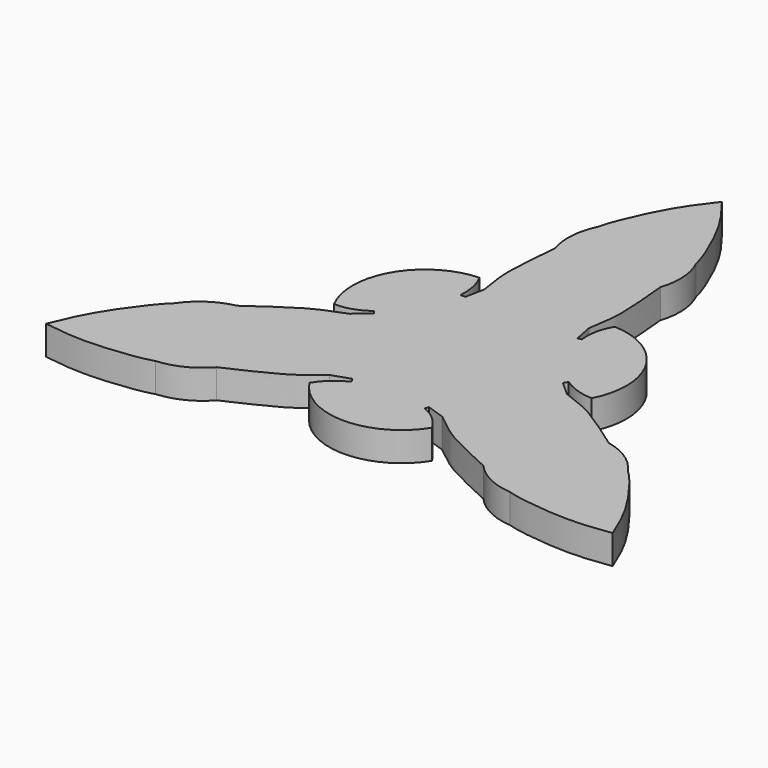
from build123d import *

# Parameters (mm, degrees)
F1_DEPTH = 6.35


with BuildPart() as f1:
    # F0 (on Top) → F1 (new body)
    with BuildSketch(Plane.XY):
        with BuildLine():
            add(Edge.make_bspline(
                [(0, 71.2421610951), (-1.8717980289, 68.832793782), (-5.9054940485, 63.7394567312), (-10.2932083579, 53.2239591481), (-10.7742816294, 50.7587112719)],
                knots=[0, 0, 0, 0, 0.3881776272, 0.8302867615, 0.8302867615, 0.8302867615, 0.8302867615], degree=3))
            ThreePointArc((-10.7742816294, 50.7587112719), (-12.151414509, 45.5150408691), (-11.4572210078, 40.1381765744))
            add(Edge.make_bspline(
                [(-11.3991048065, 20.7600555156), (-11.7325351971, 22.9101453469), (-12.7530584769, 27.8294481961), (-11.8366984864, 35.6693833545), (-11.4572210078, 40.1381765744)],
                knots=[0, 0, 0, 0, 0.426568444, 1, 1, 1, 1], degree=3))
            Line((-11.3991048065, 20.7600555156), (-12.216145647, 16.6687367736))
            Line((-12.216145647, 16.6687367736), (-20.5436223185, 2.2451240799))
            Line((-20.5436223185, 2.2451240799), (-8.3274766714, -18.9138608535))
            Line((-8.3274766714, -18.9138608535), (8.3274766714, -18.9138608535))
            Line((8.3274766714, -18.9138608535), (20.5436223185, 2.2451240799))
            Line((20.5436223185, 2.2451240799), (12.216145647, 16.6687367736))
            Line((12.216145647, 16.6687367736), (11.3991048065, 20.7600555156))
            add(Edge.make_bspline(
                [(11.3991048065, 20.7600555156), (11.7325351971, 22.9101453469), (12.7530584769, 27.8294481961), (11.8366984864, 35.6693833545), (11.4572210078, 40.1381765744)],
                knots=[0, 0, 0, 0, 0.426568444, 1, 1, 1, 1], degree=3))
            ThreePointArc((11.4572210078, 40.1381765744), (12.151414509, 45.5150408691), (10.7742816294, 50.7587112719))
            add(Edge.make_bspline(
                [(0, 71.2421610951), (1.8717980289, 68.832793782), (5.9054940485, 63.7394567312), (10.2932083579, 53.2239591481), (10.7742816294, 50.7587112719)],
                knots=[0, 0, 0, 0, 0.3881776272, 0.8302867615, 0.8302867615, 0.8302867615, 0.8302867615], degree=3))
        make_face()
        with BuildLine():
            Line((-20.5436223185, 2.2451240799), (-12.216145647, 16.6687367736))
            Line((-12.216145647, 16.6687367736), (-13.2953060188, 16.6687367736))
            ThreePointArc((-13.2953060188, 16.6687367736), (-13.4997773753, 20.2820878122), (-14.7402806158, 23.6819798654))
            ThreePointArc((-14.7402806158, 23.6819798654), (-27.7067627464, 15.7853712662), (-27.984043385, 0.6061353941))
            ThreePointArc((-27.984043385, 0.6061353941), (-24.3555326782, 1.1738561923), (-21.1061885939, 2.885627169))
            Line((-21.1061885939, 2.885627169), (-20.5436223185, 2.2451240799))
        make_face()
        with BuildLine():
            Line((-8.3274766714, -18.9138608535), (-20.5436223185, 2.2451240799))
            Line((-20.5436223185, 2.2451240799), (-23.6782878637, -0.508113415))
            add(Edge.make_bspline(
                [(-23.6782878637, -0.508113415), (-25.7070354734, -1.294399142), (-30.4775383496, -2.8702514812), (-36.8089413655, -7.5838100911), (-40.4892910789, -10.1468438377)],
                knots=[0, 0, 0, 0, 0.426568444, 1, 1, 1, 1], degree=3))
            ThreePointArc((-40.4892910789, -10.1468438377), (-45.4928889014, -12.2340867779), (-49.3454742395, -16.0485540373))
            add(Edge.make_bspline(
                [(-61.6975213289, -35.6210805476), (-60.5468470431, -32.7953722472), (-58.1527357769, -26.7554204977), (-51.2399048911, -17.6977996497), (-49.3454742395, -16.0485540373)],
                knots=[0, 0, 0, 0, 0.3881776272, 0.8302867615, 0.8302867615, 0.8302867615, 0.8302867615], degree=3))
            add(Edge.make_bspline(
                [(-61.6975213289, -35.6210805476), (-58.6750490142, -36.0374215348), (-52.2472417284, -36.9840362335), (-40.9466965333, -35.5261594984), (-38.5711926101, -34.7101572345)],
                knots=[0, 0, 0, 0, 0.3881776272, 0.8302867615, 0.8302867615, 0.8302867615, 0.8302867615], degree=3))
            ThreePointArc((-38.5711926101, -34.7101572345), (-33.3414743924, -33.2809540912), (-29.0320700711, -29.9913327367))
            add(Edge.make_bspline(
                [(-12.2791830572, -20.2519421006), (-13.9745002763, -21.6157462049), (-17.7244798727, -24.959196715), (-24.9722428792, -28.0855732634), (-29.0320700711, -29.9913327367)],
                knots=[0, 0, 0, 0, 0.426568444, 1, 1, 1, 1], degree=3))
            Line((-12.2791830572, -20.2519421006), (-8.3274766714, -18.9138608535))
        make_face()
        with BuildLine():
            Line((8.3274766714, -18.9138608535), (-8.3274766714, -18.9138608535))
            Line((-8.3274766714, -18.9138608535), (-7.7878964856, -19.8484411502))
            ThreePointArc((-7.7878964856, -19.8484411502), (-10.8149145995, -21.8321940585), (-13.1390558675, -24.6064474049))
            ThreePointArc((-13.1390558675, -24.6064474049), (0.1828488485, -31.8874460281), (13.4670930431, -24.5379601691))
            ThreePointArc((13.4670930431, -24.5379601691), (11.1611770562, -21.6794381182), (8.0540678628, -19.7213090839))
            Line((8.0540678628, -19.7213090839), (8.3274766714, -18.9138608535))
        make_face()
        with BuildLine():
            Line((20.5436223185, 2.2451240799), (8.3274766714, -18.9138608535))
            Line((8.3274766714, -18.9138608535), (12.2791830572, -20.2519421006))
            add(Edge.make_bspline(
                [(12.2791830572, -20.2519421006), (13.9745002763, -21.6157462049), (17.7244798727, -24.959196715), (24.9722428792, -28.0855732634), (29.0320700711, -29.9913327367)],
                knots=[0, 0, 0, 0, 0.426568444, 1, 1, 1, 1], degree=3))
            ThreePointArc((29.0320700711, -29.9913327367), (33.3414743924, -33.2809540912), (38.5711926101, -34.7101572345))
            add(Edge.make_bspline(
                [(61.6975213289, -35.6210805476), (58.6750490142, -36.0374215348), (52.2472417284, -36.9840362335), (40.9466965333, -35.5261594984), (38.5711926101, -34.7101572345)],
                knots=[0, 0, 0, 0, 0.3881776272, 0.8302867615, 0.8302867615, 0.8302867615, 0.8302867615], degree=3))
            add(Edge.make_bspline(
                [(61.6975213289, -35.6210805476), (60.5468470431, -32.7953722472), (58.1527357769, -26.7554204977), (51.2399048911, -17.6977996497), (49.3454742395, -16.0485540373)],
                knots=[0, 0, 0, 0, 0.3881776272, 0.8302867615, 0.8302867615, 0.8302867615, 0.8302867615], degree=3))
            ThreePointArc((49.3454742395, -16.0485540373), (45.4928889014, -12.2340867779), (40.4892910789, -10.1468438377))
            add(Edge.make_bspline(
                [(23.6782878637, -0.508113415), (25.7070354734, -1.294399142), (30.4775383496, -2.8702514812), (36.8089413655, -7.5838100911), (40.4892910789, -10.1468438377)],
                knots=[0, 0, 0, 0, 0.426568444, 1, 1, 1, 1], degree=3))
            Line((23.6782878637, -0.508113415), (20.5436223185, 2.2451240799))
        make_face()
        with BuildLine():
            Line((13.0521207311, 16.8356819149), (12.216145647, 16.6687367736))
            Line((12.216145647, 16.6687367736), (20.5436223185, 2.2451240799))
            Line((20.5436223185, 2.2451240799), (21.0832025044, 3.1797043765))
            ThreePointArc((21.0832025044, 3.1797043765), (24.3146919748, 1.5501062464), (27.8793364832, 0.9244675395))
            ThreePointArc((27.8793364832, 0.9244675395), (27.5239138979, 16.1020747619), (14.516950342, 23.931824775))
            ThreePointArc((14.516950342, 23.931824775), (13.194355622, 20.5055819259), (13.0521207311, 16.8356819149))
        make_face()
    extrude(amount=F1_DEPTH)


solid = f1.part
